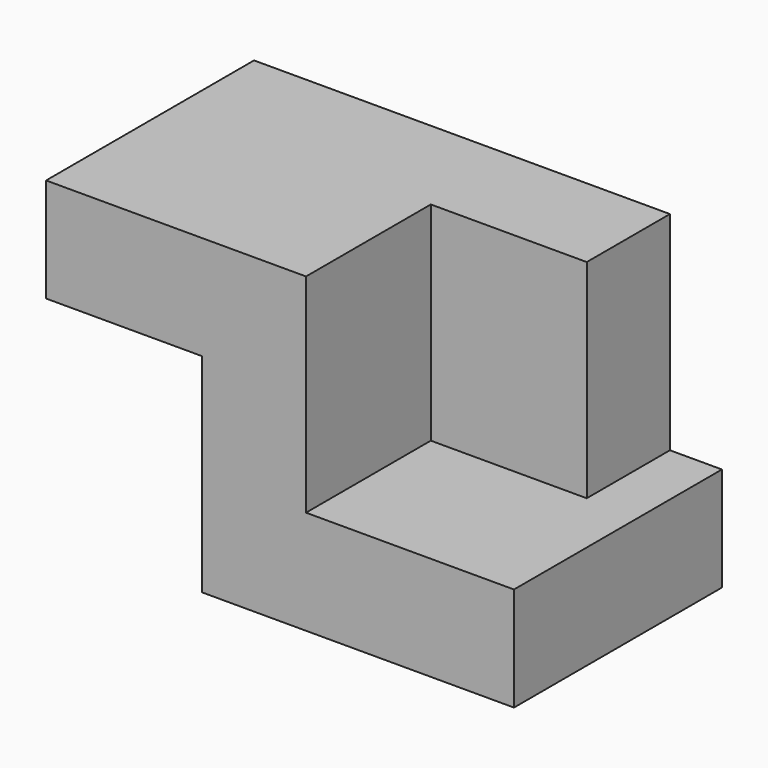
from build123d import *

# Parameters (mm, degrees)
F0_W     = 76.2
F0_H     = 63.5
F1_DEPTH = 25.4
F3_DEPTH = 50.8
F4_W     = 63.5
F4_H     = 25.4
F5_DEPTH = 38.1


with BuildPart() as f1:
    # F0 (on Top) → F1 (new body)
    with BuildSketch(Plane.XY):
        with Locations((7.273637, 8.060864)):
            Rectangle(F0_W, F0_H)
    extrude(amount=F1_DEPTH)

    # F2 (on face) → F3 (join)
    with BuildSketch(Plane.XY.offset(25.4)):
        Polygon((-30.826363, 39.810864), (-30.826363, -23.689136), (-5.426363, -23.689136), (-5.426363, 14.410864), (32.673637, 14.410864), (32.673637, 39.810864), align=None)
    extrude(amount=F3_DEPTH)

    # F4 (on face) → F5 (join)
    with BuildSketch(Plane(origin=(-30.826363, 0, 0), x_dir=(0, -1, 0), z_dir=(-1, 0, 0))):
        with Locations((-8.060864, 63.5)):
            Rectangle(F4_W, F4_H)
    extrude(amount=F5_DEPTH)


solid = f1.part
